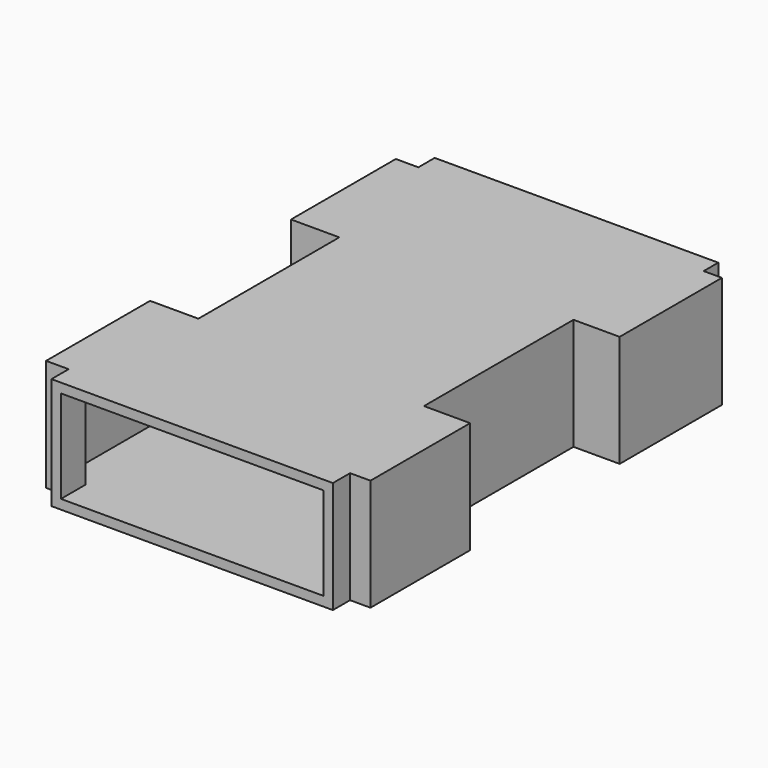
from build123d import *

# Parameters (mm, degrees)
F1_DEPTH = 29.972
F2_T     = -2.54


with BuildPart() as f1:
    # F0 (on Top) → F1 (new body)
    with BuildSketch(Plane.XY):
        Polygon((38.5659709573, 64.1806870699), (-37.4147482216, 64.1806870699), (-37.4147482216, 58.712374419), (-43.4586703777, 58.712374419), (-43.4586703777, 23.6000716686), (-30.5074099451, 23.6000716686), (-30.5074099451, -23.6000716686), (-43.4586703777, -23.6000716686), (-43.4586703777, -58.4245696664), (-37.4147482216, -58.4245696664), (-37.4147482216, -64.1806870699), (37.9903614521, -64.1806870699), (37.9903614521, -58.4245696664), (43.4586703777, -58.4245696664), (43.4586703777, -25.0390991569), (31.083021313, -25.0390991569), (31.083021313, 25.0390991569), (43.4586703777, 25.0390991569), (43.4586703777, 59.2879876494), (38.5659709573, 59.2879876494), align=None)
    extrude(amount=F1_DEPTH)

    # F2
    f2_openings = [f1.faces().sort_by_distance(p)[0] for p in [
        (0.287807, -64.180687, 14.986),
    ]]
    offset(amount=F2_T, openings=f2_openings, kind=Kind.INTERSECTION)


solid = f1.part
